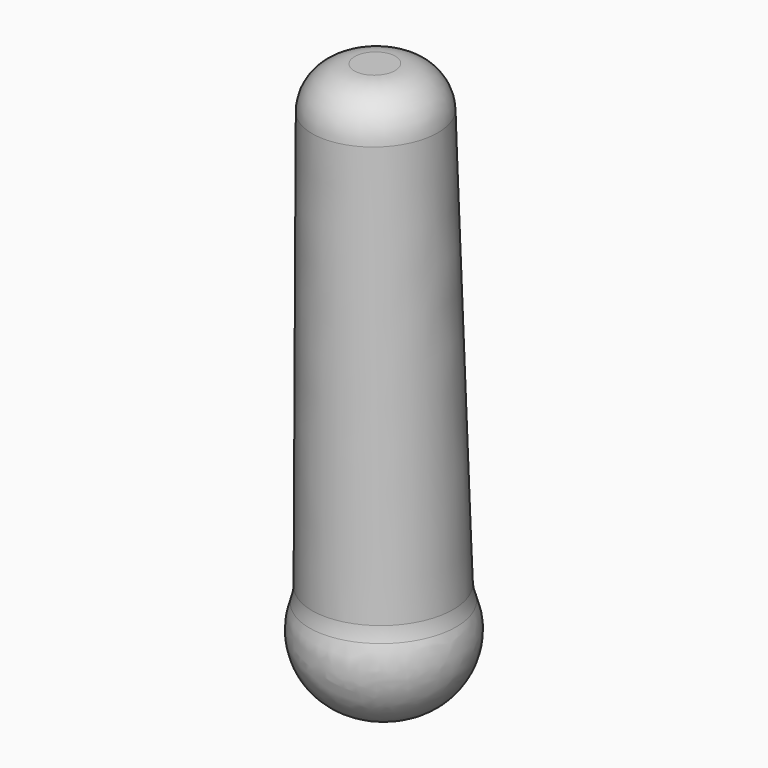
from build123d import *

# Parameters (mm, degrees)
F2_R = 5.08


with BuildPart() as f1:
    # F0 (on Front) → F1 (revolve)
    with BuildSketch(Plane.XZ):
        with BuildLine():
            Line((-14.8317851126, 55.9253580868), (-14.8317851126, 0))
            ThreePointArc((-14.8317851126, 0), (-14.001503631, -8.4209454347), (-6.1737584956, -11.6346808699))
            Line((-6.1737584956, -11.6346808699), (-7.4158925563, 56.0614299029))
            Line((-7.4158925563, 56.0614299029), (-14.8317851126, 55.9253580868))
        make_face()
    revolve(axis=Axis((-6.7948255259, 0, 22.2133745165), (0.0183455889, 0, -0.9998317055)))

    # F2
    f2_edges = [f1.edges().sort_by_distance(p)[0] for p in [
        (0, 0, 56.197502),
        (2.051622, 0, 0.309788),
        (-14.831785, 0, 27.962679),
    ]]
    fillet(f2_edges, radius=F2_R)


solid = f1.part
